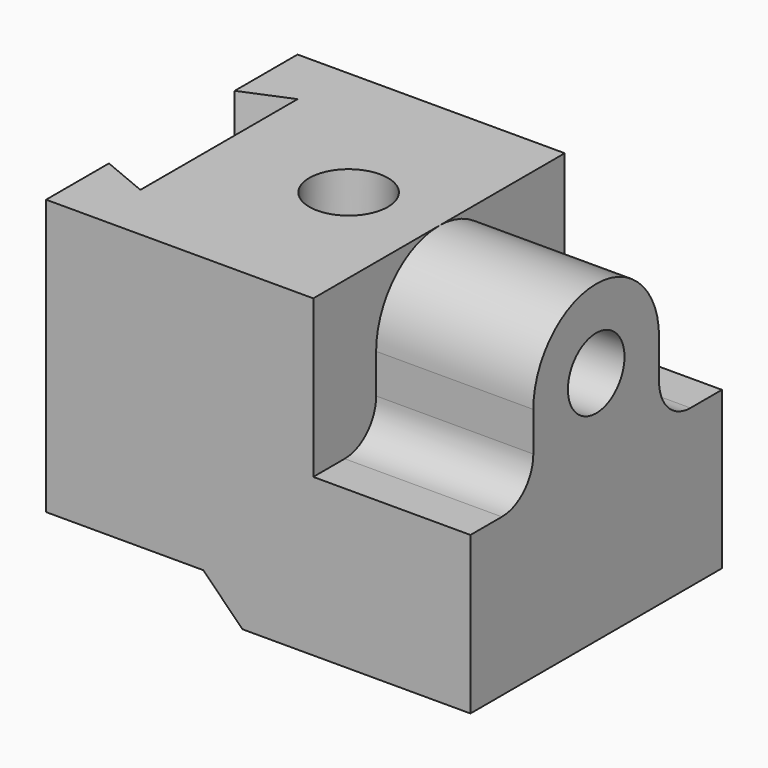
from build123d import *

# Parameters (mm, degrees)
F1_DEPTH = 40
F2_R     = 9
F3_DEPTH = 40
F4_R     = 9
F5_DEPTH = 132.5
F7_DEPTH = 100
F6_R     = 10
F9_R     = 10


with BuildPart() as f1:
    # F0 (on Front) → F1 (new body, symmetric)
    with BuildSketch(Plane.XZ):
        Polygon((-10, 10), (0, 0), (58, 0), (58, 40), (18, 40), (18, 80), (-50, 80), (-50, 10), align=None)
    extrude(amount=F1_DEPTH, both=True)

    # F2 (on face) → F3 (join)
    with BuildSketch(Plane.YZ.offset(58)):
        with BuildLine():
            Line((20, 40), (20, 60))
            ThreePointArc((20, 60), (0, 80), (-20, 60))
            Line((-20, 60), (-20, 40))
            Line((-20, 40), (-40, 40))
            Line((-40, 40), (-40, 0))
            Line((-40, 0), (40, 0))
            Line((40, 0), (40, 40))
            Line((40, 40), (20, 40))
        make_face()
        with Locations((0, 60)):
            Circle(F2_R, mode=Mode.SUBTRACT)
    extrude(amount=-F3_DEPTH)


with BuildPart() as f5:
    # F4 (on face) → F5 (new body)
    with BuildSketch(Plane.YZ.offset(18)):
        with Locations((0, 60)):
            Circle(F4_R)
    extrude(amount=-F5_DEPTH)


with BuildPart() as f7:
    # F6 (on face) → F7 (new body)
    with BuildSketch(Plane.XY.offset(80)):
        Polygon((-50, 20), (-50, 0), (-50, -20), (-38, -25), (-38, 25), align=None)
    extrude(amount=-F7_DEPTH)


with BuildPart() as f7b:
    # F6 (on face) → F7, piece 2 (new body)
    with BuildSketch(Plane.XY.offset(80)):
        with Locations((-5, 0)):
            Circle(F6_R)
    extrude(amount=-F7_DEPTH)


with BuildPart() as f1_1:
    add(f1.part)

    # F8: cut F5, F7, F7b
    add(f5.part, mode=Mode.SUBTRACT)
    add(f7.part, mode=Mode.SUBTRACT)
    add(f7b.part, mode=Mode.SUBTRACT)

    # F9
    f9_edges = [f1_1.edges().sort_by_distance(p)[0] for p in [
        (38, -20, 40),
        (38, 20, 40),
    ]]
    fillet(f9_edges, radius=F9_R)


solid = f1_1.part
